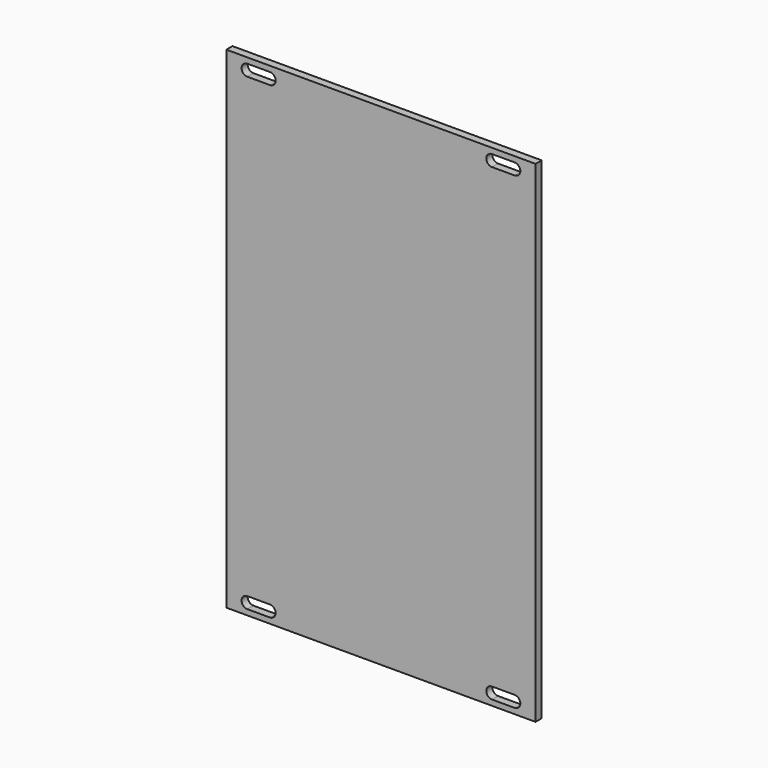
from build123d import *

# Parameters (mm, degrees)
F0_W     = 80.9
F0_H     = 128.5
F1_DEPTH = 2


with BuildPart() as f1:
    # F0 (on Front) → F1 (new body)
    with BuildSketch(Plane.XZ):
        Rectangle(F0_W, F0_H)
        with BuildLine():
            ThreePointArc((-34.95, -62.8), (-36.45, -61.3), (-34.95, -59.8))
            Line((-34.95, -59.8), (-29.05, -59.8))
            ThreePointArc((-29.05, -59.8), (-27.55, -61.3), (-29.05, -62.8))
            Line((-29.05, -62.8), (-34.95, -62.8))
        make_face(mode=Mode.SUBTRACT)
        with BuildLine():
            ThreePointArc((29.05, -62.8), (27.55, -61.3), (29.05, -59.8))
            Line((29.05, -59.8), (34.95, -59.8))
            ThreePointArc((34.95, -59.8), (36.45, -61.3), (34.95, -62.8))
            Line((34.95, -62.8), (29.05, -62.8))
        make_face(mode=Mode.SUBTRACT)
        with BuildLine():
            ThreePointArc((-34.95, 59.8), (-36.45, 61.3), (-34.95, 62.8))
            Line((-34.95, 62.8), (-29.05, 62.8))
            ThreePointArc((-29.05, 62.8), (-27.55, 61.3), (-29.05, 59.8))
            Line((-29.05, 59.8), (-34.95, 59.8))
        make_face(mode=Mode.SUBTRACT)
        with BuildLine():
            ThreePointArc((29.05, 59.8), (27.55, 61.3), (29.05, 62.8))
            Line((29.05, 62.8), (34.95, 62.8))
            ThreePointArc((34.95, 62.8), (36.45, 61.3), (34.95, 59.8))
            Line((34.95, 59.8), (29.05, 59.8))
        make_face(mode=Mode.SUBTRACT)
    extrude(amount=F1_DEPTH)


solid = f1.part
